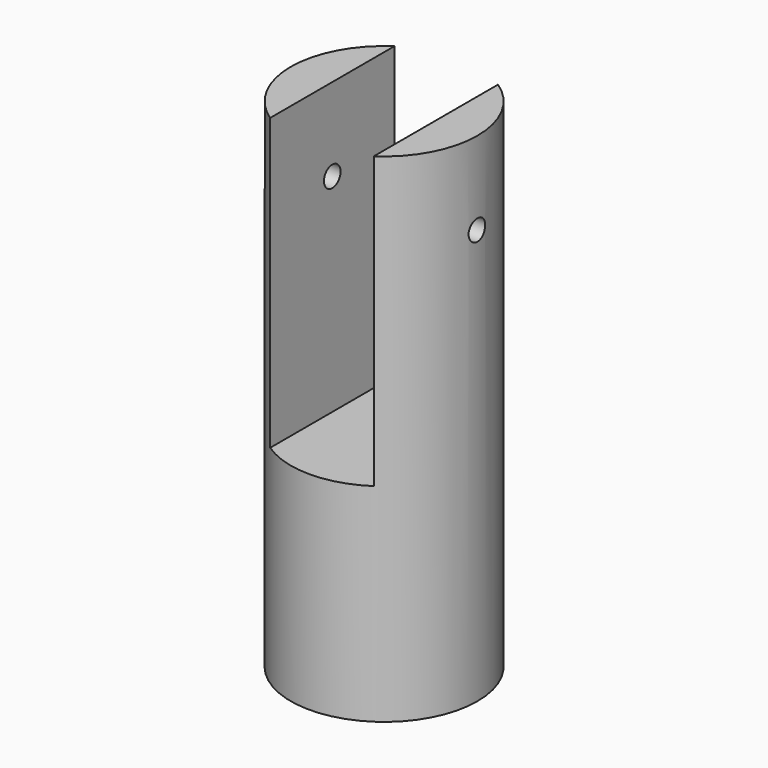
from build123d import *

# Parameters (mm, degrees)
F0_R     = 22.5
F1_DEPTH = 120
F3_DEPTH = 70
F4_R     = 20
F5_DEPTH = 35
F7_D     = 5
F7_DEPTH = 22.501
F9_D     = 5


with BuildPart() as f1:
    # F0 (on Top) → F1 (new body)
    with BuildSketch(Plane.XY):
        Circle(F0_R)
    extrude(amount=F1_DEPTH)

    # F2 (on face) → F3 (cut)
    with BuildSketch(Plane.XY.offset(120)):
        with BuildLine():
            ThreePointArc((12.5, 18.7082869339), (0, 22.5), (-12.5, 18.7082869339))
            Line((-12.5, 18.7082869339), (-12.5, -18.7082869339))
            ThreePointArc((-12.5, -18.7082869339), (0, -22.5), (12.5, -18.7082869339))
            Line((12.5, -18.7082869339), (12.5, 18.7082869339))
        make_face()
    extrude(amount=-F3_DEPTH, mode=Mode.SUBTRACT)

    # F4 (on face) → F5 (cut)
    with BuildSketch(Plane(origin=(0, 0, 0), x_dir=(1, 0, 0), z_dir=(0, 0, -1))):
        Circle(F4_R)
    extrude(amount=-F5_DEPTH, mode=Mode.SUBTRACT)

    # F7 (through all, one way)
    with BuildSketch(Plane.YZ):
        with Locations((0, 100)):
            Circle(F7_D / 2)
    extrude(amount=-F7_DEPTH, mode=Mode.SUBTRACT)

    # F9 (through all)
    with Locations(Plane(origin=(0, 0, 0), x_dir=(0, 1, 0), z_dir=(-1, 0, 0))):
        with Locations((0, -100)):
            Hole(F9_D / 2)


solid = f1.part
